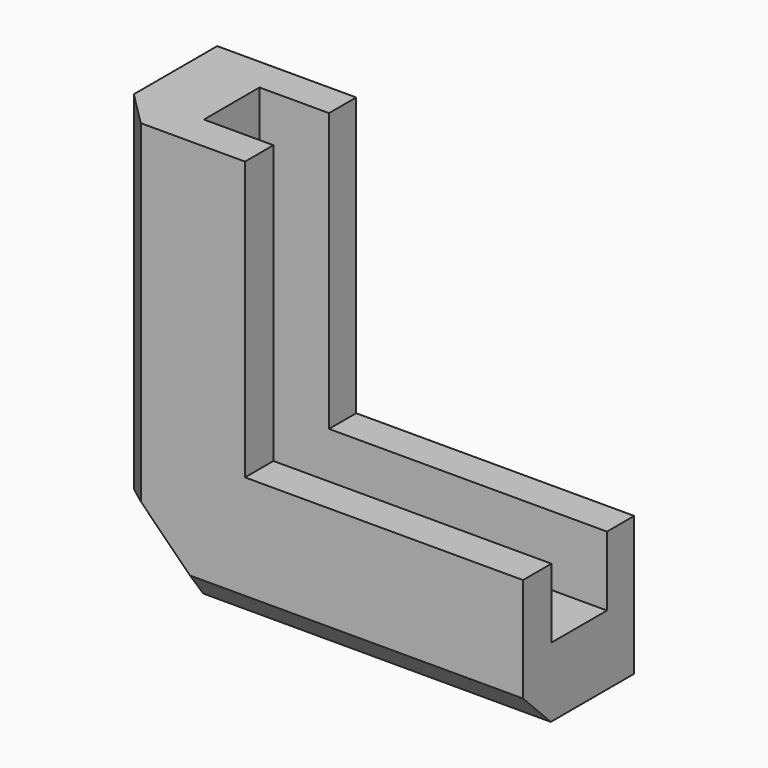
from build123d import *

# Parameters (mm, degrees)
F0_W     = 60
F0_H     = 20
F1_DEPTH = 20
F2_W     = 20
F2_H     = 60
F3_DEPTH = 20
F4_W     = 10
F4_H     = 40
F5_DEPTH = 10
F7_DEPTH = 10
F8_SIZE  = 10
F9_SIZE  = 5
F10_SIZE = 5


with BuildPart() as f1:
    # F0 (on Top) → F1 (new body)
    with BuildSketch(Plane.XY):
        with Locations((30, 10)):
            Rectangle(F0_W, F0_H)
    extrude(amount=F1_DEPTH)

    # F2 (on Front) → F3 (join)
    with BuildSketch(Plane.XZ):
        with Locations((10, 30)):
            Rectangle(F2_W, F2_H)
    extrude(amount=-F3_DEPTH)

    # F4 (on face) → F5 (cut)
    with BuildSketch(Plane.YZ.offset(20)):
        with Locations((10.1094414666, 40)):
            Rectangle(F4_W, F4_H)
    extrude(amount=-F5_DEPTH, mode=Mode.SUBTRACT)

    # F6 (on face) → F7 (cut)
    with BuildSketch(Plane.XY.offset(20)):
        Polygon((20, 15.1094414666), (10, 15.1094414666), (10, 5.1094414666), (20, 5.1094414666), (60, 5.1094414666), (60, 15.1094414666), align=None)
    extrude(amount=-F7_DEPTH, mode=Mode.SUBTRACT)

    # F8
    f8_edges = [f1.edges().sort_by_distance(p)[0] for p in [
        (0, 10, 0),
    ]]
    chamfer(f8_edges, length=F8_SIZE)

    # F9
    f9_edges = [f1.edges().sort_by_distance(p)[0] for p in [
        (35, 0, 0),
        (5, 0, 5),
    ]]
    chamfer(f9_edges, length=F9_SIZE)

    # F10
    f10_edges = [f1.edges().sort_by_distance(p)[0] for p in [
        (0, 0, 38.535534),
    ]]
    chamfer(f10_edges, length=F10_SIZE)


solid = f1.part
